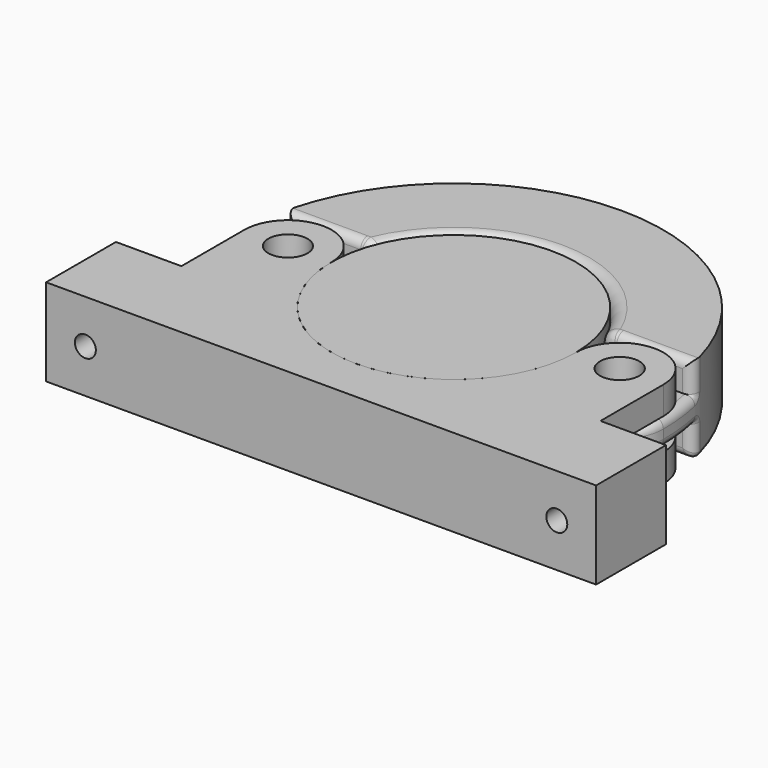
from build123d import *

# Parameters (mm, degrees)
CYLINDER003_R             = 28
CYLINDER003_DEPTH         = 20
CYLINDER009_R             = 10
CYLINDER009_DEPTH         = 7.266667
CYLINDER011_R             = 7
CYLINDER011_DEPTH         = 4
CYLINDER010_R             = 4.5
CYLINDER010_DEPTH         = 20
CYLINDER013_R             = 7
CYLINDER013_DEPTH         = 4
CYLINDER012_R             = 4.5
CYLINDER012_DEPTH         = 20
BOX009_W                  = 40
BOX009_H                  = 20
BOX009_DEPTH              = 7.266667
BOX010_W                  = 40
BOX010_H                  = 20
BOX010_DEPTH              = 7.266667
CYLINDER008_R             = 10
CYLINDER008_DEPTH         = 7.266667
CYLINDER006_R             = 2.4
CYLINDER006_DEPTH         = 11
CYLINDER007_R             = 4
CYLINDER007_DEPTH         = 100
FUSION002_PLACEMENT_ANGLE = 270
CYLINDER004_R             = 2.4
CYLINDER004_DEPTH         = 11
CYLINDER005_R             = 4
CYLINDER005_DEPTH         = 100
FUSION001_PLACEMENT_ANGLE = 270
CYLINDER_R                = 28
CYLINDER_DEPTH            = 20
BOX001_W                  = 96
BOX001_H                  = 28
BOX001_DEPTH              = 20
CYLINDER001_R             = 10
CYLINDER001_DEPTH         = 20
CYLINDER002_R             = 10
CYLINDER002_DEPTH         = 20
BOX_W                     = 126
BOX_H                     = 20
BOX_DEPTH                 = 20
BOX006_W                  = 40
BOX006_H                  = 20
BOX006_DEPTH              = 6.966667
BOX007_W                  = 40
BOX007_H                  = 20
BOX007_DEPTH              = 6.966667
BOX008_W                  = 40
BOX008_H                  = 20
BOX008_DEPTH              = 6.966667
BOX005_W                  = 40
BOX005_H                  = 20
BOX005_DEPTH              = 6.966667
CYLINDER024_R             = 10
CYLINDER024_DEPTH         = 6.966667
CYLINDER025_R             = 10
CYLINDER025_DEPTH         = 6.966667
CYLINDER026_R             = 10
CYLINDER026_DEPTH         = 6.966667
CYLINDER022_R             = 10
CYLINDER022_DEPTH         = 6.966667
CYLINDER019_R             = 7
CYLINDER019_DEPTH         = 4
CYLINDER018_R             = 4.5
CYLINDER018_DEPTH         = 20
CYLINDER021_R             = 7
CYLINDER021_DEPTH         = 4
CYLINDER020_R             = 4.5
CYLINDER020_DEPTH         = 20
CYLINDER015_R             = 10
CYLINDER015_DEPTH         = 20
CYLINDER016_R             = 10
CYLINDER016_DEPTH         = 20
BOX002_W                  = 96
BOX002_H                  = 48
BOX002_DEPTH              = 20
CYLINDER014_R             = 28
CYLINDER014_DEPTH         = 20
CYLINDER017_R             = 48
CYLINDER017_DEPTH         = 20
FILLET003_R               = 3
FILLET004_R               = 2
FILLET005_R               = 1
FILLET006_R               = 2


with BuildPart() as cylinder003:
    # Cylinder003 → Cylinder003 (new body)
    with BuildSketch(Plane.XY):
        Circle(CYLINDER003_R)
    extrude(amount=CYLINDER003_DEPTH)


with BuildPart() as cylinder009:
    # Cylinder009 → Cylinder009 (new body)
    with BuildSketch(Plane(origin=(-38, 0, 6.366667), x_dir=(1, 0, 0), z_dir=(0, 0, 1))):
        Circle(CYLINDER009_R)
    extrude(amount=CYLINDER009_DEPTH)


with BuildPart() as cylinder011:
    # Cylinder011 → Cylinder011 (new body)
    with BuildSketch(Plane(origin=(38, 0, 0), x_dir=(1, 0, 0), z_dir=(0, 0, 1))):
        Circle(CYLINDER011_R)
    extrude(amount=CYLINDER011_DEPTH)


with BuildPart() as fusion004:
    # Cylinder010 → Cylinder010 (new body)
    with BuildSketch(Plane(origin=(38, 0, 0), x_dir=(1, 0, 0), z_dir=(0, 0, 1))):
        Circle(CYLINDER010_R)
    extrude(amount=CYLINDER010_DEPTH)

    # Fusion004: union Cylinder011
    add(cylinder011.part)


with BuildPart() as cylinder013:
    # Cylinder013 → Cylinder013 (new body)
    with BuildSketch(Plane(origin=(-38, 0, 0), x_dir=(1, 0, 0), z_dir=(0, 0, 1))):
        Circle(CYLINDER013_R)
    extrude(amount=CYLINDER013_DEPTH)


with BuildPart() as fusion005:
    # Cylinder012 → Cylinder012 (new body)
    with BuildSketch(Plane(origin=(-38, 0, 0), x_dir=(1, 0, 0), z_dir=(0, 0, 1))):
        Circle(CYLINDER012_R)
    extrude(amount=CYLINDER012_DEPTH)

    # Fusion005: union Cylinder013
    add(cylinder013.part)


with BuildPart() as cube009:
    # Box009 → Box009 (new body)
    with BuildSketch(Plane(origin=(18, -10, 6.366667), x_dir=(1, 0, 0), z_dir=(0, 0, 1))):
        with Locations((20, 10)):
            Rectangle(BOX009_W, BOX009_H)
    extrude(amount=BOX009_DEPTH)


with BuildPart() as cube010:
    # Box010 → Box010 (new body)
    with BuildSketch(Plane(origin=(-58, -10, 6.366667), x_dir=(1, 0, 0), z_dir=(0, 0, 1))):
        with Locations((20, 10)):
            Rectangle(BOX010_W, BOX010_H)
    extrude(amount=BOX010_DEPTH)


with BuildPart() as fusion006:
    # Cylinder008 → Cylinder008 (new body)
    with BuildSketch(Plane(origin=(38, 0, 6.366667), x_dir=(1, 0, 0), z_dir=(0, 0, 1))):
        Circle(CYLINDER008_R)
    extrude(amount=CYLINDER008_DEPTH)

    # Fusion006: union Cylinder009, Fusion004, Fusion005, Cube009, Cube010
    add(cylinder009.part)
    add(fusion004.part)
    add(fusion005.part)
    add(cube009.part)
    add(cube010.part)


with BuildPart() as cylinder006:
    # Cylinder006 → Cylinder006 (new body)
    with BuildSketch(Plane.XY):
        Circle(CYLINDER006_R)
    extrude(amount=CYLINDER006_DEPTH)


with BuildPart() as fusion002:
    # Cylinder007 → Cylinder007 (new body)
    with BuildSketch(Plane.XY.offset(7)):
        Circle(CYLINDER007_R)
    extrude(amount=CYLINDER007_DEPTH)

    # Fusion002: union Cylinder006
    add(cylinder006.part)


with BuildPart() as fusion002_1:
    # Fusion002 placement: moved
    add(fusion002.part.moved(Location((-54, -38, 10))).rotate(Axis((-54, -38, 10), (1, 0, 0)), FUSION002_PLACEMENT_ANGLE))


with BuildPart() as cylinder004:
    # Cylinder004 → Cylinder004 (new body)
    with BuildSketch(Plane.XY):
        Circle(CYLINDER004_R)
    extrude(amount=CYLINDER004_DEPTH)


with BuildPart() as fusion003:
    # Cylinder005 → Cylinder005 (new body)
    with BuildSketch(Plane.XY.offset(7)):
        Circle(CYLINDER005_R)
    extrude(amount=CYLINDER005_DEPTH)

    # Fusion001: union Cylinder004
    add(cylinder004.part)


with BuildPart() as fusion003_1:
    # Fusion001 placement: moved
    add(fusion003.part.moved(Location((54, -38, 10))).rotate(Axis((54, -38, 10), (1, 0, 0)), FUSION001_PLACEMENT_ANGLE))

    # Fusion003: union Fusion002
    add(fusion002_1.part)


with BuildPart() as cylinder:
    # Cylinder → Cylinder (new body)
    with BuildSketch(Plane.XY):
        Circle(CYLINDER_R)
    extrude(amount=CYLINDER_DEPTH)


with BuildPart() as cube001:
    # Box001 → Box001 (new body)
    with BuildSketch(Plane(origin=(-48, -28, 0), x_dir=(1, 0, 0), z_dir=(0, 0, 1))):
        with Locations((48, 14)):
            Rectangle(BOX001_W, BOX001_H)
    extrude(amount=BOX001_DEPTH)


with BuildPart() as cylinder001:
    # Cylinder001 → Cylinder001 (new body)
    with BuildSketch(Plane(origin=(38, 0, 0), x_dir=(1, 0, 0), z_dir=(0, 0, 1))):
        Circle(CYLINDER001_R)
    extrude(amount=CYLINDER001_DEPTH)


with BuildPart() as cylinder002:
    # Cylinder002 → Cylinder002 (new body)
    with BuildSketch(Plane(origin=(-38, 0, 0), x_dir=(1, 0, 0), z_dir=(0, 0, 1))):
        Circle(CYLINDER002_R)
    extrude(amount=CYLINDER002_DEPTH)


with BuildPart() as obj1:
    # Box → Box (new body)
    with BuildSketch(Plane(origin=(-63, -38, 0), x_dir=(1, 0, 0), z_dir=(0, 0, 1))):
        with Locations((63, 10)):
            Rectangle(BOX_W, BOX_H)
    extrude(amount=BOX_DEPTH)

    # Fusion: union Cube001, Cylinder001, Cylinder002
    add(cube001.part)
    add(cylinder001.part)
    add(cylinder002.part)

    # Cut: cut Cylinder
    add(cylinder.part, mode=Mode.SUBTRACT)

    # Cut001: cut Fusion003
    add(fusion003_1.part, mode=Mode.SUBTRACT)

    # Cut002: cut Fusion006
    add(fusion006.part, mode=Mode.SUBTRACT)


with BuildPart() as cube006:
    # Box006 → Box006 (new body)
    with BuildSketch(Plane(origin=(-48, -10, 13.033333), x_dir=(1, 0, 0), z_dir=(0, 0, 1))):
        with Locations((20, 10)):
            Rectangle(BOX006_W, BOX006_H)
    extrude(amount=BOX006_DEPTH)


with BuildPart() as cube007:
    # Box007 → Box007 (new body)
    with BuildSketch(Plane(origin=(18, -10, 0), x_dir=(1, 0, 0), z_dir=(0, 0, 1))):
        with Locations((20, 10)):
            Rectangle(BOX007_W, BOX007_H)
    extrude(amount=BOX007_DEPTH)


with BuildPart() as cube008:
    # Box008 → Box008 (new body)
    with BuildSketch(Plane(origin=(18, -10, 13.033333), x_dir=(1, 0, 0), z_dir=(0, 0, 1))):
        with Locations((20, 10)):
            Rectangle(BOX008_W, BOX008_H)
    extrude(amount=BOX008_DEPTH)


with BuildPart() as fusion012:
    # Box005 → Box005 (new body)
    with BuildSketch(Plane(origin=(-48, -10, 0), x_dir=(1, 0, 0), z_dir=(0, 0, 1))):
        with Locations((20, 10)):
            Rectangle(BOX005_W, BOX005_H)
    extrude(amount=BOX005_DEPTH)

    # Fusion012: union Cube006, Cube007, Cube008
    add(cube006.part)
    add(cube007.part)
    add(cube008.part)


with BuildPart() as cylinder024:
    # Cylinder024 → Cylinder024 (new body)
    with BuildSketch(Plane(origin=(38, 0, 13.033333), x_dir=(1, 0, 0), z_dir=(0, 0, 1))):
        Circle(CYLINDER024_R)
    extrude(amount=CYLINDER024_DEPTH)


with BuildPart() as cylinder025:
    # Cylinder025 → Cylinder025 (new body)
    with BuildSketch(Plane(origin=(-38, 0, 0), x_dir=(1, 0, 0), z_dir=(0, 0, 1))):
        Circle(CYLINDER025_R)
    extrude(amount=CYLINDER025_DEPTH)


with BuildPart() as cylinder026:
    # Cylinder026 → Cylinder026 (new body)
    with BuildSketch(Plane(origin=(-38, 0, 13.033333), x_dir=(1, 0, 0), z_dir=(0, 0, 1))):
        Circle(CYLINDER026_R)
    extrude(amount=CYLINDER026_DEPTH)


with BuildPart() as fusion011:
    # Cylinder022 → Cylinder022 (new body)
    with BuildSketch(Plane(origin=(38, 0, 0), x_dir=(1, 0, 0), z_dir=(0, 0, 1))):
        Circle(CYLINDER022_R)
    extrude(amount=CYLINDER022_DEPTH)

    # Fusion011: union Cylinder024, Cylinder025, Cylinder026
    add(cylinder024.part)
    add(cylinder025.part)
    add(cylinder026.part)


with BuildPart() as cylinder019:
    # Cylinder019 → Cylinder019 (new body)
    with BuildSketch(Plane(origin=(38, 0, 0), x_dir=(1, 0, 0), z_dir=(0, 0, 1))):
        Circle(CYLINDER019_R)
    extrude(amount=CYLINDER019_DEPTH)


with BuildPart() as fusion008:
    # Cylinder018 → Cylinder018 (new body)
    with BuildSketch(Plane(origin=(38, 0, 0), x_dir=(1, 0, 0), z_dir=(0, 0, 1))):
        Circle(CYLINDER018_R)
    extrude(amount=CYLINDER018_DEPTH)

    # Fusion008: union Cylinder019
    add(cylinder019.part)


with BuildPart() as cylinder021:
    # Cylinder021 → Cylinder021 (new body)
    with BuildSketch(Plane(origin=(-38, 0, 0), x_dir=(1, 0, 0), z_dir=(0, 0, 1))):
        Circle(CYLINDER021_R)
    extrude(amount=CYLINDER021_DEPTH)


with BuildPart() as fusion010:
    # Cylinder020 → Cylinder020 (new body)
    with BuildSketch(Plane(origin=(-38, 0, 0), x_dir=(1, 0, 0), z_dir=(0, 0, 1))):
        Circle(CYLINDER020_R)
    extrude(amount=CYLINDER020_DEPTH)

    # Fusion009: union Cylinder021
    add(cylinder021.part)

    # Fusion010: union Fusion008
    add(fusion008.part)


with BuildPart() as cylinder015:
    # Cylinder015 → Cylinder015 (new body)
    with BuildSketch(Plane(origin=(38, 0, 0), x_dir=(1, 0, 0), z_dir=(0, 0, 1))):
        Circle(CYLINDER015_R)
    extrude(amount=CYLINDER015_DEPTH)


with BuildPart() as cylinder016:
    # Cylinder016 → Cylinder016 (new body)
    with BuildSketch(Plane(origin=(-38, 0, 0), x_dir=(1, 0, 0), z_dir=(0, 0, 1))):
        Circle(CYLINDER016_R)
    extrude(amount=CYLINDER016_DEPTH)


with BuildPart() as cube002:
    # Box002 → Box002 (new body)
    with BuildSketch(Plane(origin=(-48, -48, 0), x_dir=(1, 0, 0), z_dir=(0, 0, 1))):
        with Locations((48, 24)):
            Rectangle(BOX002_W, BOX002_H)
    extrude(amount=BOX002_DEPTH)


with BuildPart() as cylinder014:
    # Cylinder014 → Cylinder014 (new body)
    with BuildSketch(Plane.XY):
        Circle(CYLINDER014_R)
    extrude(amount=CYLINDER014_DEPTH)


with BuildPart() as obj2:
    # Cylinder017 → Cylinder017 (new body)
    with BuildSketch(Plane.XY):
        Circle(CYLINDER017_R)
    extrude(amount=CYLINDER017_DEPTH)

    # Cut003: cut Cylinder014
    add(cylinder014.part, mode=Mode.SUBTRACT)

    # Cut004: cut Cube002
    add(cube002.part, mode=Mode.SUBTRACT)

    # Fusion007: union Cylinder015, Cylinder016
    add(cylinder015.part)
    add(cylinder016.part)

    # Cut005: cut Fusion010
    add(fusion010.part, mode=Mode.SUBTRACT)

    # Cut006: cut Fusion011
    add(fusion011.part, mode=Mode.SUBTRACT)

    # Cut007: cut Fusion012
    add(fusion012.part, mode=Mode.SUBTRACT)

    # Fillet003
    fillet003_edges = [obj2.edges().sort_by_distance(p)[0] for p in [
        (0, 28, 0),
        (0, 28, 20),
    ]]
    fillet(fillet003_edges, radius=FILLET003_R)

    # Fillet004
    fillet004_edges = [obj2.edges().sort_by_distance(p)[0] for p in [
        (-33.671401, 10, 0),
        (-42.473389, 10, 0),
        (33.671401, 10, 0),
        (42.473389, 10, 0),
        (-27.124352, 10, 0.848783),
        (-26.153394, 10, 4.983333),
        (27.124352, 10, 0.848783),
        (-46.946778, 10, 3.483333),
        (26.153394, 10, 4.983333),
        (-47.735968, 5.027655, 6.966667),
        (-47.735968, 5.027655, 13.033333),
        (-46.946778, 10, 16.516667),
        (46.946778, 10, 16.516667),
        (47.735968, 5.027655, 13.033333),
        (47.735968, 5.027655, 6.966667),
        (46.946778, 10, 3.483333),
        (-27.534479, 5.084534, 6.966667),
        (27.534479, 5.084534, 6.966667),
        (-27.534479, 5.084534, 13.033333),
        (-26.153394, 10, 15.016667),
        (27.534479, 5.084534, 13.033333),
        (26.153394, 10, 15.016667),
        (-45.071068, -7.071068, 6.966667),
        (-30.928932, -7.071068, 6.966667),
        (-45.071068, -7.071068, 13.033333),
        (-30.928932, -7.071068, 13.033333),
        (-42.473389, 10, 20),
        (-33.671401, 10, 20),
        (33.671401, 10, 20),
        (42.473389, 10, 20),
        (45.071068, 7.071068, 13.033333),
        (30.928932, -7.071068, 13.033333),
        (45.071068, -7.071068, 13.033333),
        (30.928932, -7.071068, 6.966667),
        (45.071068, -7.071068, 6.966667),
        (-27.124352, 10, 19.151217),
        (27.124352, 10, 19.151217),
    ]]
    fillet(fillet004_edges, radius=FILLET004_R)

    # Fillet005
    fillet005_edges = [obj2.edges().sort_by_distance(p)[0] for p in [
        (46.389818, 12.263158, 0),
        (-47.876271, 3.444227, 11.033333),
    ]]
    fillet(fillet005_edges, radius=FILLET005_R)

    # Fillet006
    fillet006_edges = [obj2.edges().sort_by_distance(p)[0] for p in [
        (26.400009, 10.32668, 17),
        (-26.522664, 11.436848, 19.126071),
        (-42.5, 0, 6.966667),
        (32.343146, -5.656854, 13.033333),
    ]]
    fillet(fillet006_edges, radius=FILLET006_R)


solid = Compound([cylinder003.part, obj1.part, obj2.part])
